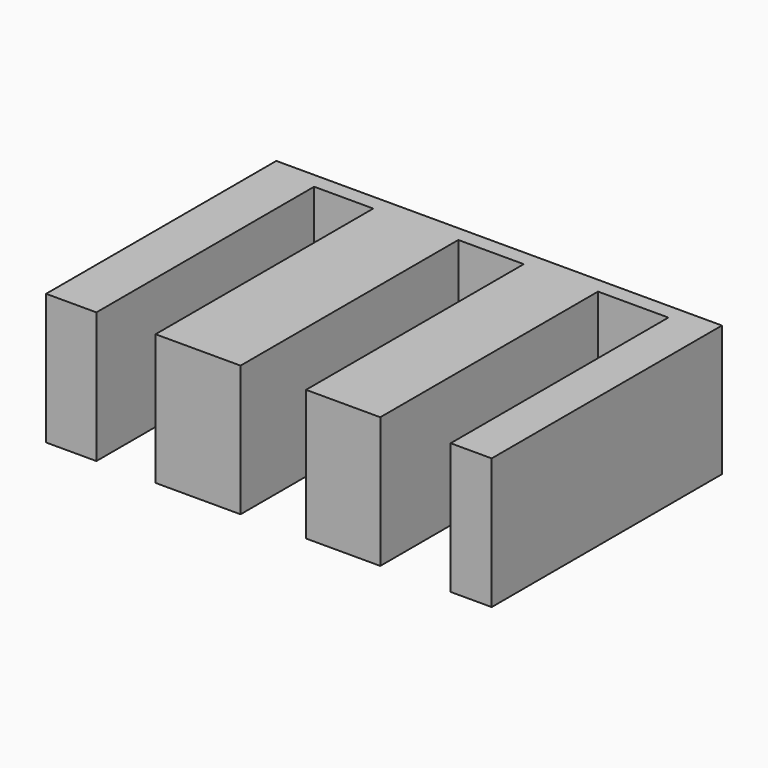
from build123d import *

# Parameters (mm, degrees)
F1_DEPTH = 25


with BuildPart() as f1:
    # F0 (on Top) → F1 (new body)
    with BuildSketch(Plane.XY):
        Polygon((-9.610486, 0), (0, 0), (0, 51.971268), (11.289988, 51.971268), (11.289988, 0), (27.525179, 0), (27.525179, 51.971268), (40.028144, 51.971268), (40.028144, 0), (54.210603, 0), (54.210603, 51.971268), (67.64663, 51.971268), (67.64663, 0), (75.484306, 0), (75.484306, 54.957051), (-9.610486, 54.957051), align=None)
    extrude(amount=F1_DEPTH)


solid = f1.part
